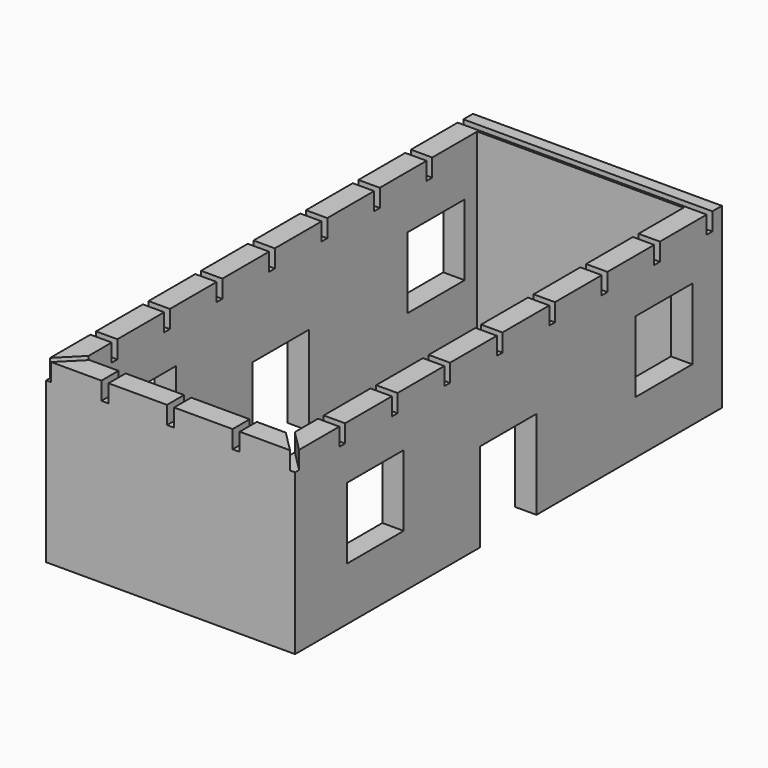
from build123d import *

# Parameters (mm, degrees)
F0_W      = 70
F0_H      = 150
F0_W_2    = 58
F0_H_2    = 138
F1_DEPTH  = 50
F2_W      = 2
F2_H      = 6
F3_DEPTH  = 5
F4_W      = 2
F4_H      = 6
F5_DEPTH  = 5
F7_DEPTH  = 5
F8_W      = 20
F8_H      = 20
F8_W_2    = 19.828947
F8_H_2    = 25
F9_DEPTH  = 200
F10_DEPTH = 25


with BuildPart() as f1:
    # F0 (on Top) → F1 (new body)
    with BuildSketch(Plane.XY):
        Rectangle(F0_W, F0_H)
        Rectangle(F0_W_2, F0_H_2, mode=Mode.SUBTRACT)
    extrude(amount=F1_DEPTH)

    # F2 (on face) → F3 (cut)
    with BuildSketch(Plane.XY.offset(50)):
        with Locations((0, -72)):
            Rectangle(F2_W, F2_H)
        Polygon((-34.292893, -75.707107), (-28.292893, -69.707107), (-27.585786, -69), (-29, -67.585786), (-29.707107, -68.292893), (-35.707107, -74.292893), align=None)
        Polygon((27.585786, -69), (28.292893, -69.707107), (33.585786, -75), (35, -75), (35, -73.585786), (29.707107, -68.292893), (29, -67.585786), align=None)
    extrude(amount=-F3_DEPTH, mode=Mode.SUBTRACT)

    # F4 (on face) → F5 (cut)
    with BuildSketch(Plane.XY.offset(50)):
        with Locations((-18.44, -72)):
            Rectangle(F4_W, F4_H)
        with Locations((18.44, -72)):
            Rectangle(F4_W, F4_H)
    extrude(amount=-F5_DEPTH, mode=Mode.SUBTRACT)

    # F6 (on face) → F7 (cut)
    with BuildSketch(Plane.XY.offset(50)):
        Polygon((29, -59.435786), (35, -59.435786), (35, -57.435786), (29, -57.435786), (-66.520862, -57.435786), (-66.520862, -59.435786), align=None)
        Polygon((35, -40.995786), (35, -38.995786), (29, -38.995786), (-40.70507, -38.995786), (-40.70507, -40.995786), (29, -40.995786), align=None)
        Polygon((35, -22.555786), (35, -20.555786), (29, -20.555786), (-41.178755, -20.555786), (-41.178755, -22.555786), (29, -22.555786), align=None)
        Polygon((35, -4.115786), (35, -2.115786), (29, -2.115786), (-41.403655, -2.115786), (-41.403655, -4.115786), (29, -4.115786), align=None)
        Polygon((35, 14.324214), (35, 16.324214), (29, 16.324214), (-43.992728, 16.324214), (-43.992728, 14.324214), (29, 14.324214), align=None)
        Polygon((35, 32.764214), (35, 34.764214), (29, 34.764214), (-43.992728, 34.764214), (-43.992728, 32.764214), (29, 32.764214), align=None)
        Polygon((35, 51.204214), (35, 53.204214), (29, 53.204214), (-39.611217, 53.204214), (-39.611217, 51.204214), (29, 51.204214), align=None)
        Polygon((29, 69.644214), (35, 69.644214), (35, 71.644214), (29, 71.644214), (-35, 71.644214), (-35, 69.644214), align=None)
    extrude(amount=-F7_DEPTH, mode=Mode.SUBTRACT)

    # F8 (on face) → F9 (cut)
    with BuildSketch(Plane(origin=(-35, 0, 0), x_dir=(0, -1, 0), z_dir=(-1, 0, 0))):
        with Locations((-54.592106, 25)):
            Rectangle(F8_W, F8_H)
        with Locations((46.825401, 25)):
            Rectangle(F8_W, F8_H)
        with Locations((0.085527, 12.5)):
            Rectangle(F8_W_2, F8_H_2)
    extrude(amount=-F9_DEPTH, mode=Mode.SUBTRACT)

    # F8 (on face) → F10 (cut)
    with BuildSketch(Plane(origin=(-35, 0, 0), x_dir=(0, -1, 0), z_dir=(-1, 0, 0))):
        with Locations((-54.592106, 25)):
            Rectangle(F8_W, F8_H)
        with Locations((46.825401, 25)):
            Rectangle(F8_W, F8_H)
        with Locations((0.085527, 12.5)):
            Rectangle(F8_W_2, F8_H_2)
    extrude(amount=-F10_DEPTH, mode=Mode.SUBTRACT)


solid = f1.part
